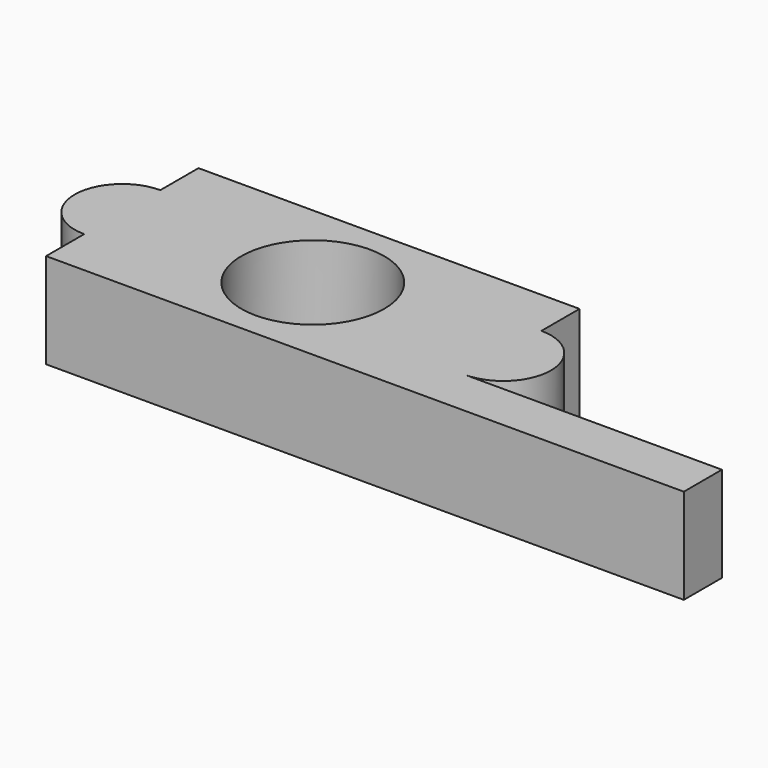
from build123d import *

# Parameters (mm, degrees)
F0_R      = 38.1
F1_DEPTH  = 50.8
F1_FACE_W = 25.4
F1_FACE_H = 50.8
F2_DEPTH  = 136.906


with BuildPart() as f1:
    # F0 (on Top) → F1 (new body)
    with BuildSketch(Plane.XY):
        with BuildLine():
            Line((101.6, 50.8), (-101.6, 50.8))
            Line((-101.6, 50.8), (-101.6, 25.4))
            ThreePointArc((-101.6, 25.4), (-127, 0), (-101.6, -25.4))
            Line((-101.6, -25.4), (-101.6, -50.8))
            Line((-101.6, -50.8), (101.6, -50.8))
            Line((101.6, -50.8), (101.6, -25.4))
            ThreePointArc((101.6, -25.4), (127, 0), (101.6, 25.4))
            Line((101.6, 25.4), (101.6, 50.8))
        make_face()
        Circle(F0_R, mode=Mode.SUBTRACT)
    extrude(amount=F1_DEPTH)

    # F1_face (on face) → F2 (join)
    with BuildSketch(Plane(origin=(101.6, -38.1, 25.4), x_dir=(0, 1, 0), z_dir=(1, 0, 0))):
        Rectangle(F1_FACE_W, F1_FACE_H)
    extrude(amount=F2_DEPTH)


solid = f1.part
